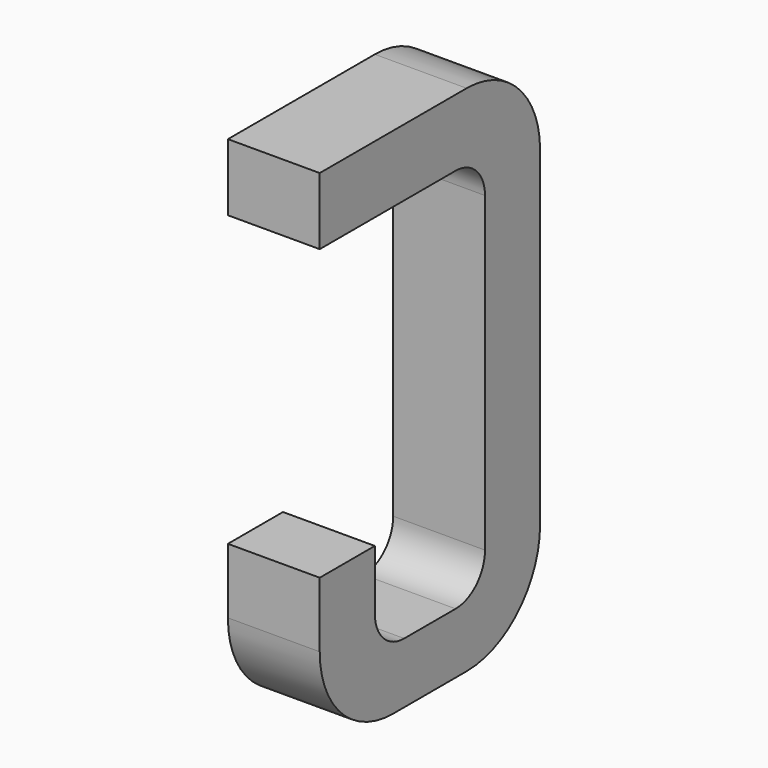
from build123d import *

# Parameters (mm, degrees)
BOX187_W     = 0.5
BOX187_H     = 1.5
BOX187_DEPTH = 2.795
FILLET471_R  = 0.5
FILLET468_R  = 0.5
FILLET402_R  = 0.5
BOX184_W     = 0.75
BOX184_H     = 2.1
BOX184_DEPTH = 1
FILLET465_R  = 0.2
FILLET405_R  = 0.2
FILLET474_R  = 0.2
FILLET404_R  = 0.2
BOX183_W     = 1
BOX183_H     = 1.575
BOX183_DEPTH = 3


with BuildPart() as part:
    # Box187 → Box187 (join)
    with BuildSketch(Plane(origin=(-0.25, 11.125, 0), x_dir=(1, 0, 0), z_dir=(0, 0, 1))):
        with Locations((0.25, 0.75)):
            Rectangle(BOX187_W, BOX187_H)
    extrude(amount=BOX187_DEPTH)

    # Fillet471
    fillet471_edges = [part.edges().sort_by_distance(p)[0] for p in [
        (0, 12.625, 0),
    ]]
    fillet(fillet471_edges, radius=FILLET471_R)

    # Fillet468
    fillet468_edges = [part.edges().sort_by_distance(p)[0] for p in [
        (0, 12.625, 2.795),
    ]]
    fillet(fillet468_edges, radius=FILLET468_R)

    # Fillet402
    fillet402_edges = [part.edges().sort_by_distance(p)[0] for p in [
        (0, 11.125, 0),
    ]]
    fillet(fillet402_edges, radius=FILLET402_R)

    # Box184 → Box184 (cut)
    with BuildSketch(Plane(origin=(-0.5, 11.5, 0.33), x_dir=(0, 1, 0), z_dir=(1, 0, 0))):
        with Locations((0.375, 1.05)):
            Rectangle(BOX184_W, BOX184_H)
    extrude(amount=BOX184_DEPTH, mode=Mode.SUBTRACT)

    # Fillet465
    fillet465_edges = [part.edges().sort_by_distance(p)[0] for p in [
        (0, 11.5, 0.33),
    ]]
    fillet(fillet465_edges, radius=FILLET465_R)

    # Fillet405
    fillet405_edges = [part.edges().sort_by_distance(p)[0] for p in [
        (0, 12.25, 0.33),
    ]]
    fillet(fillet405_edges, radius=FILLET405_R)

    # Fillet474
    fillet474_edges = [part.edges().sort_by_distance(p)[0] for p in [
        (0, 11.5, 2.43),
    ]]
    fillet(fillet474_edges, radius=FILLET474_R)

    # Fillet404
    fillet404_edges = [part.edges().sort_by_distance(p)[0] for p in [
        (0, 12.25, 2.43),
    ]]
    fillet(fillet404_edges, radius=FILLET404_R)

    # Box183 → Box183 (cut)
    with BuildSketch(Plane(origin=(-1, 11, 0.855), x_dir=(0, 1, 0), z_dir=(1, 0, 0))):
        with Locations((0.5, 0.7875)):
            Rectangle(BOX183_W, BOX183_H)
    extrude(amount=BOX183_DEPTH, mode=Mode.SUBTRACT)


with BuildPart() as part_1:
    # Body057 placement: moved
    add(part.part.moved(Location((-10.16, 0, 0))))


solid = part_1.part
